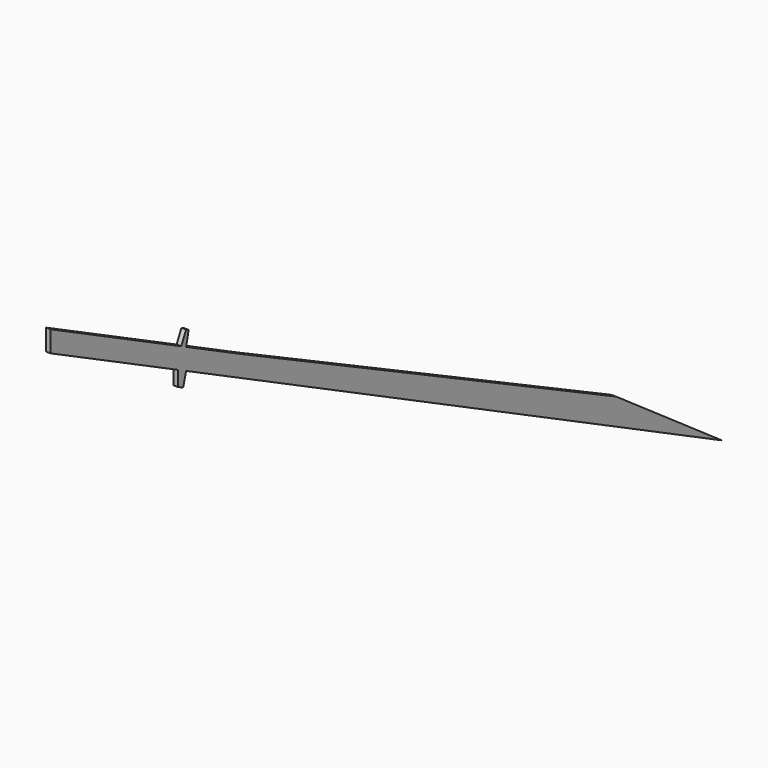
from build123d import *

# Parameters (mm, degrees)
F1_DEPTH = 25.4


with BuildPart() as f1:
    # F0 (on Right) → F1 (new body)
    with BuildSketch(Plane.YZ):
        Polygon((245.0814843178, -122.0027208328), (0, 0), (0, -115.5001354055), (3657.2494506836, -1936.0961914062), (2934.5104694366, -1431.5899610519), (376.7951726913, -187.7133101225), align=None)
        Polygon((0, -115.5001354055), (0, 0), (-33.1946770807, 16.524467086), (-54.0016578511, -81.8672191593), align=None)
        Polygon((-33.1946770807, 16.524467086), (0, 0), (17.6064074039, 74.6441856027), (0, 83.2065924915), align=None)
        Polygon((-55.293253218, -87.9748927089), (0, -115.5001354055), (-54.0016578511, -81.8672191593), align=None)
        Polygon((-19.9713829201, -187.7133101225), (0, -115.5001354055), (-55.293253218, -87.9748927089), (-55.293253218, -170.5354601145), align=None)
        Polygon((-54.0016578511, -81.8672191593), (-33.1946770807, 16.524467086), (-923.9424188991, 459.9429014898), align=None)
        Polygon((-55.293253218, -87.9748927089), (-54.0016578511, -81.8672191593), (-923.9424188991, 459.9429014898), (-923.9424188991, 344.4427660843), align=None)
    extrude(amount=F1_DEPTH)


solid = f1.part
